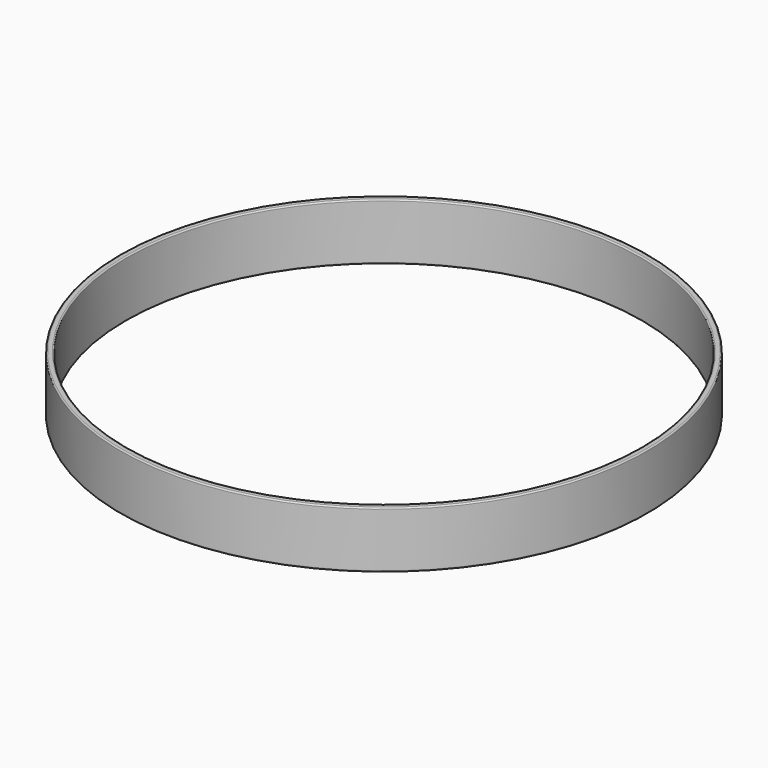
from build123d import *


with BuildPart() as f1:
    # F0 (on Front) → F1 (revolve)
    with BuildSketch(Plane.XZ):
        with BuildLine():
            Line((-205.6, 0.215417), (-208.6, 0.215417))
            ThreePointArc((-208.6, 0.215417), (-209.307107, -0.077476), (-209.6, -0.784583))
            Line((-209.6, -0.784583), (-209.6, -43.784583))
            ThreePointArc((-209.6, -43.784583), (-209.307107, -44.491689), (-208.6, -44.784583))
            Line((-208.6, -44.784583), (-205.6, -44.784583))
            ThreePointArc((-205.6, -44.784583), (-204.892893, -44.491689), (-204.6, -43.784583))
            Line((-204.6, -43.784583), (-204.6, -0.784583))
            ThreePointArc((-204.6, -0.784583), (-204.892893, -0.077476), (-205.6, 0.215417))
        make_face()
    revolve(axis=Axis((0, 0, -2.723343), (0, 0, -1)))


solid = f1.part
